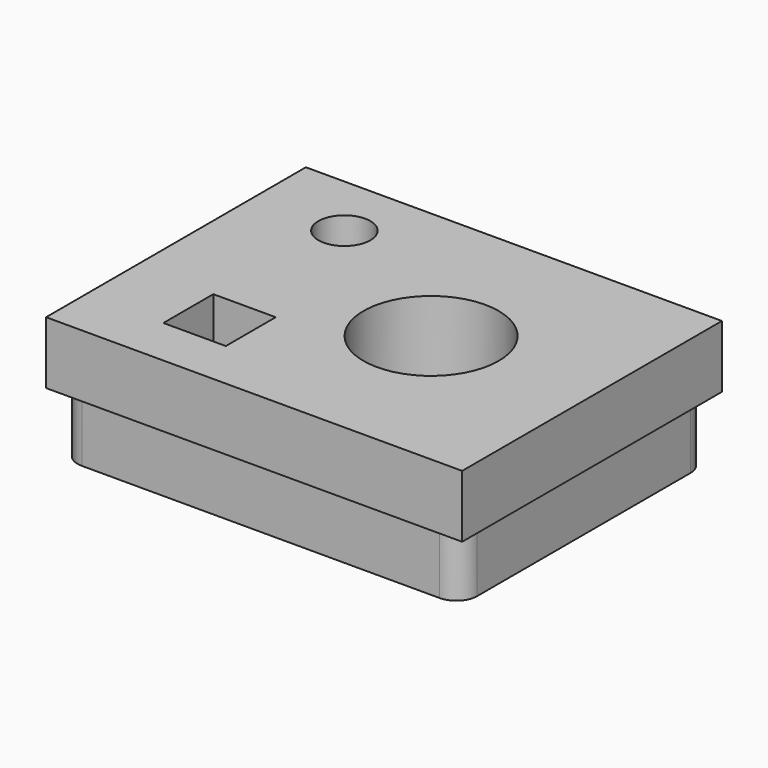
from build123d import *

# Parameters (mm, degrees)
F0_W     = 20
F0_H     = 15.6083446927
F0_W_2   = 3
F0_H_2   = 3
F0_R     = 1.25
F0_R_2   = 3.25
F1_DEPTH = 6
F2_R     = 1.25
F3_DEPTH = 5.6
F4_W     = 20
F4_H     = 15.6083446927
F4_W_2   = 19.2
F4_H_2   = 14.8083446927
F5_DEPTH = 3
F7_START = -0.6
F6_R     = 1.4
F7_DEPTH = 4.8
F8_R     = 1


with BuildPart() as f1:
    # F0 (on Top) → F1 (new body)
    with BuildSketch(Plane.XY):
        with Locations((1.4342954904, -0.0335501973)):
            Rectangle(F0_W, F0_H)
        with Locations((-3.3330191961, -3.9553961381)):
            Rectangle(F0_W_2, F0_H_2, mode=Mode.SUBTRACT)
        with Locations((-4.2153447866, 4.6489532106)):
            Circle(F0_R, mode=Mode.SUBTRACT)
        with Locations((3.6709753331, 0)):
            Circle(F0_R_2, mode=Mode.SUBTRACT)
    extrude(amount=F1_DEPTH)

    # F2 (on face) → F3 (cut)
    with BuildSketch(Plane(origin=(0, 0, 0), x_dir=(1, 0, 0), z_dir=(0, 0, -1))):
        with Locations((8.7077384815, 5.1523931324)):
            Circle(F2_R)
    extrude(amount=-F3_DEPTH, mode=Mode.SUBTRACT)

    # F4 (on face) → F5 (cut)
    with BuildSketch(Plane(origin=(0, 0, 0), x_dir=(1, 0, 0), z_dir=(0, 0, -1))):
        with Locations((1.4342954904, 0.0335501973)):
            Rectangle(F4_W, F4_H)
        with Locations((1.4342954904, 0.0335501973)):
            Rectangle(F4_W_2, F4_H_2, mode=Mode.SUBTRACT)
    extrude(amount=-F5_DEPTH, mode=Mode.SUBTRACT)

    # F6 (on face) → F7 (cut)
    with BuildSketch(Plane(origin=(0, 0, 0), x_dir=(1, 0, 0), z_dir=(0, 0, -1)).offset(F7_START)):
        with Locations((8.1054680049, -4.4064032845)):
            Circle(F6_R)
    extrude(amount=-F7_DEPTH, mode=Mode.SUBTRACT)

    # F8
    f8_edges = [f1.edges().sort_by_distance(p)[0] for p in [
        (11.034295, 7.370622, 1.5),
        (-8.165705, 7.370622, 1.5),
        (-8.165705, -7.437723, 1.5),
        (11.034295, -7.437723, 1.5),
    ]]
    fillet(f8_edges, radius=F8_R)


solid = f1.part
